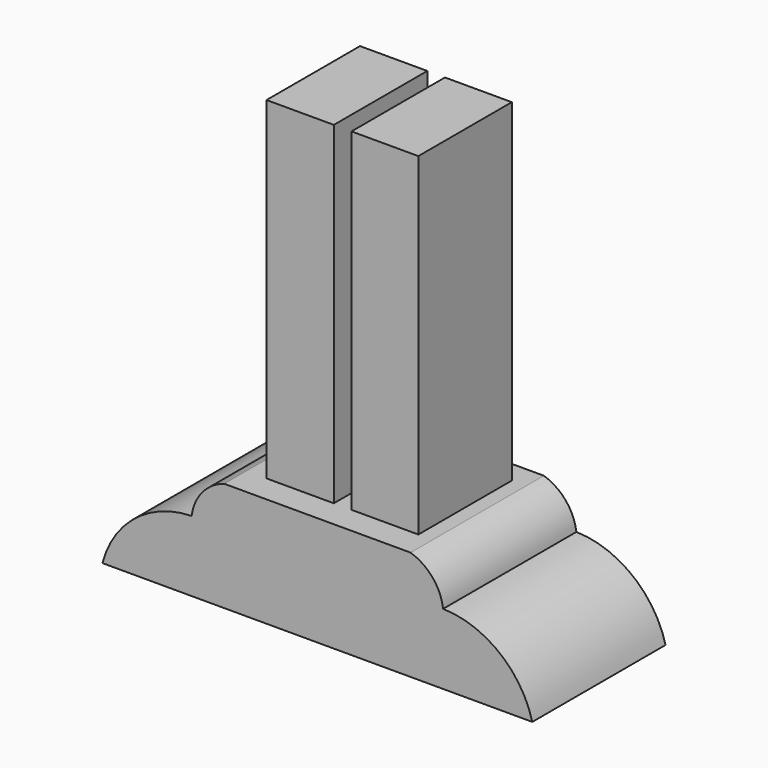
from build123d import *

# Parameters (mm, degrees)
F1_DEPTH = 101.6
F2_W     = 41.042692
F2_H     = 71.251595
F2_W_2   = 40.773873
F3_DEPTH = 203.2


with BuildPart() as f1:
    # F0 (on Front) → F1 (new body)
    with BuildSketch(Plane.XZ):
        with BuildLine():
            Line((-131.095514, -43.026961), (-122.749157, -43.026961))
            Line((-122.749157, -43.026961), (131.095514, -43.026961))
            ThreePointArc((131.095514, -43.026961), (111.101538, -12.406508), (76.700233, 0))
            ThreePointArc((76.700233, 0), (70.237943, 14.771668), (56.841634, 23.743974))
            Line((56.841634, 23.743974), (-56.841634, 23.743974))
            ThreePointArc((-56.841634, 23.743974), (-70.237943, 14.771668), (-76.700233, 0))
            ThreePointArc((-76.700233, 0), (-111.101538, -12.406508), (-131.095514, -43.026961))
        make_face()
    extrude(amount=F1_DEPTH)

    # F2 (on face) → F3 (join)
    with BuildSketch(Plane.XY.offset(23.743974)):
        with Locations((-23.989629, -49.085791)):
            Rectangle(F2_W, F2_H)
        with Locations((27.691657, -49.085791)):
            Rectangle(F2_W_2, F2_H)
    extrude(amount=F3_DEPTH)


solid = f1.part
